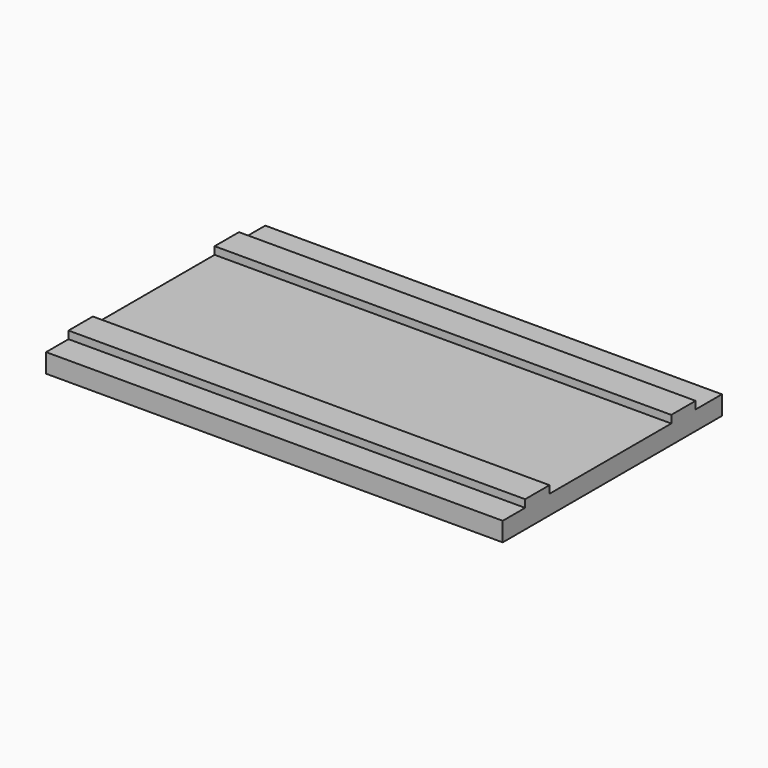
from build123d import *

# Parameters (mm, degrees)
F0_W     = 76.2
F0_H     = 35.56
F0_H_2   = 5.08
F1_DEPTH = 3.175
F2_W     = 76.2
F2_H     = 5.08
F3_DEPTH = 1.27


with BuildPart() as f1:
    # F0 (on Top) → F1 (new body)
    with BuildSketch(Plane.XY):
        with Locations((-38.1, 5.08)):
            Rectangle(F0_W, F0_H)
        with Locations((-38.1, 25.4)):
            Rectangle(F0_W, F0_H_2)
        with Locations((-38.1, -15.24)):
            Rectangle(F0_W, F0_H_2)
    extrude(amount=F1_DEPTH)

    # F2 (on face) → F3 (join)
    with BuildSketch(Plane.XY.offset(3.175)):
        with Locations((-38.1, 19.9146774936)):
            Rectangle(F2_W, F2_H)
        with Locations((-38.1, -10.5653225064)):
            Rectangle(F2_W, F2_H)
    extrude(amount=F3_DEPTH)


solid = f1.part
